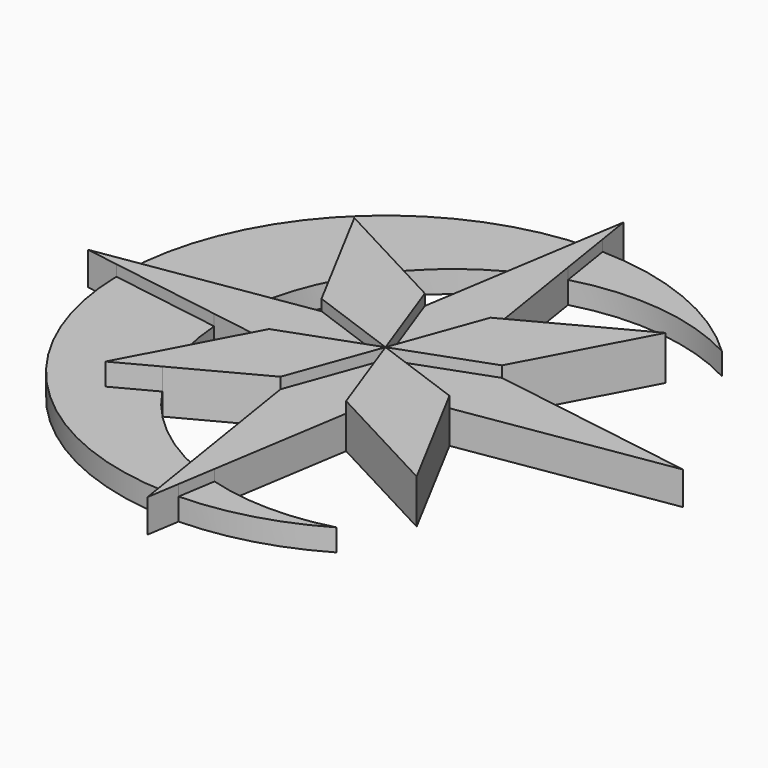
from build123d import *

# Parameters (mm, degrees)
F1_DEPTH = 5.08
F2_DEPTH = 7.62
F3_DEPTH = 10.16


with BuildPart() as f1:
    # F0 (on Top) → F1 (new body)
    with BuildSketch(Plane.XY):
        with BuildLine():
            Line((1.18219, 61.035888), (3.152259, 48.600974))
            ThreePointArc((3.152259, 48.600974), (23.064598, 50.169934), (42.121717, 44.187535))
            ThreePointArc((42.121717, 44.187535), (23.233033, 56.453551), (1.18219, 61.035888))
        make_face()
        with BuildLine():
            ThreePointArc((-24.590611, 29.835868), (-15.118994, 39.40957), (-3.523368, 46.258566))
            Line((-3.523368, 46.258566), (-1.18219, 61.035888))
            ThreePointArc((-1.18219, 61.035888), (-43.156571, 43.177397), (-61.035311, 1.211636))
            Line((-61.035311, 1.211636), (-34.825747, 5.34172))
            ThreePointArc((-34.825747, 5.34172), (-32.703679, 14.435437), (-29.004045, 23.009326))
            Line((-29.004045, 23.009326), (-35.821182, 35.812188))
            Line((-35.821182, 35.812188), (-24.590611, 29.835868))
        make_face()
        with BuildLine():
            Line((-1.18219, -61.035888), (-2.846392, -50.531581))
            ThreePointArc((-2.846392, -50.531581), (-16.217942, -42.517415), (-26.646494, -30.929901))
            Line((-26.646494, -30.929901), (-35.821182, -35.812188))
            Line((-35.821182, -35.812188), (-30.047039, -24.968111))
            ThreePointArc((-30.047039, -24.968111), (-33.608865, -15.367662), (-35.239255, -5.258406))
            Line((-35.239255, -5.258406), (-61.036296, -1.16095))
            ThreePointArc((-61.036296, -1.16095), (-43.174495, -43.159474), (-1.18219, -61.035888))
        make_face()
        with BuildLine():
            ThreePointArc((30.863305, -52.670994), (16.688034, -54.48978), (2.547504, -52.41814))
            Line((2.547504, -52.41814), (1.18219, -61.035888))
            ThreePointArc((1.18219, -61.035888), (16.559629, -58.758454), (30.863305, -52.670994))
        make_face()
    extrude(amount=F1_DEPTH)


with BuildPart() as f2:
    # F0 (on Top) → F2 (new body)
    with BuildSketch(Plane.XY):
        Polygon((-20.775483, -7.55575), (0, 0), (-20.775483, 7.55575), (-34.825747, 5.34172), (-61.035311, 1.211636), (-68.514972, 0.032997), (-68.345484, 0), (-61.036296, -1.16095), (-35.239255, -5.258406), align=None)
        Polygon((-7.560967, 20.773586), (0, 0), (7.560967, 20.773586), (3.152259, 48.600974), (1.18219, 61.035888), (0, 68.49777), (-1.18219, 61.035888), (-3.523368, 46.258566), align=None)
        with BuildLine():
            Line((20.780308, -7.564811), (68.514972, 0.032997))
            Line((68.514972, 0.032997), (20.780314, 7.564822))
            Line((20.780314, 7.564822), (20.775483, 7.55575))
            ThreePointArc((20.775483, 7.55575), (20.773586, 7.560967), (20.771686, 7.566183))
            Line((20.771686, 7.566183), (0, 0))
            Line((0, 0), (20.771686, -7.566183))
            ThreePointArc((20.771686, -7.566183), (20.773586, -7.560967), (20.775483, -7.55575))
            Line((20.775483, -7.55575), (20.780308, -7.564811))
        make_face()
        Polygon((7.560967, -20.773586), (0, 0), (-7.560967, -20.773586), (-2.846392, -50.531581), (-1.18219, -61.035888), (0, -68.49777), (1.18219, -61.035888), (2.547504, -52.41814), align=None)
    extrude(amount=F2_DEPTH)


with BuildPart() as f3:
    # F0 (on Top) → F3 (new body)
    with BuildSketch(Plane.XY):
        Polygon((-20.775483, 7.55575), (0, 0), (-7.560967, 20.773586), (-24.590611, 29.835868), (-35.821182, 35.812188), (-29.004045, 23.009326), align=None)
        Polygon((20.771686, 7.566183), (20.780314, 7.564822), (35.821182, 35.812188), (7.560967, 20.773586), (0, 0), align=None)
        Polygon((35.821182, -35.812188), (20.780308, -7.564811), (20.771686, -7.566183), (0, 0), (7.560967, -20.773586), align=None)
        Polygon((-7.560967, -20.773586), (0, 0), (-20.775483, -7.55575), (-30.047039, -24.968111), (-35.821182, -35.812188), (-26.646494, -30.929901), align=None)
    extrude(amount=F3_DEPTH)


solid = Compound([f1.part, f2.part, f3.part])
